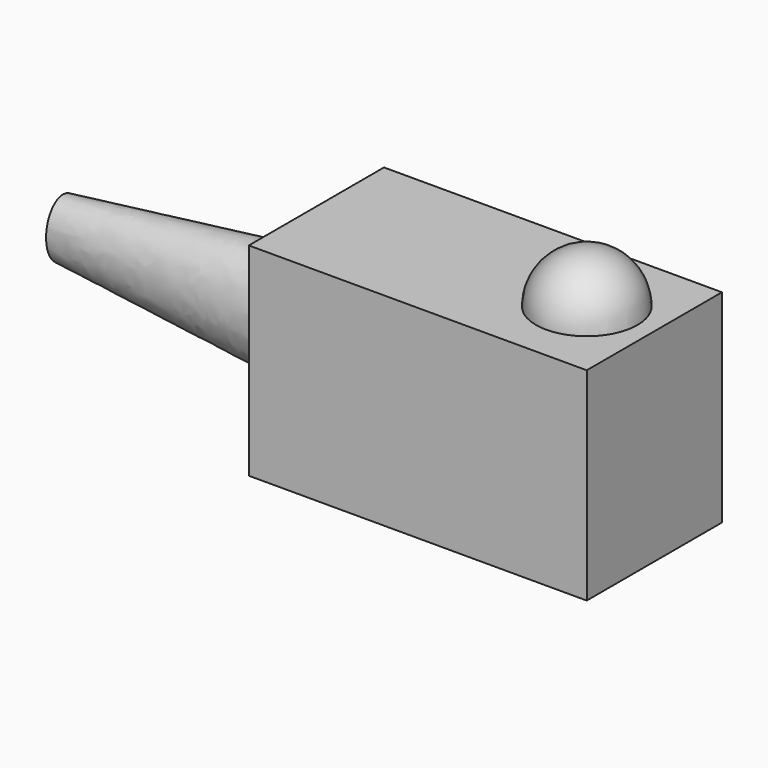
from build123d import *

# Parameters (mm, degrees)
F0_W     = 200
F0_H     = 100
F1_DEPTH = 120
F3_ANGLE = 180


with BuildPart() as f1:
    # F0 (on Top) → F1 (new body)
    with BuildSketch(Plane.XY):
        Rectangle(F0_W, F0_H)
    extrude(amount=F1_DEPTH)

    # F4 (on face) → F7 section 0
    with BuildSketch(Plane(origin=(-100, 0, 0), x_dir=(0, -1, 0), z_dir=(-1, 0, 0))):
        with BuildLine():
            add(Edge.make_bspline(
                [(0, 25), (43.30127, 25), (21.650635, 77.5), (0, 130), (-21.650635, 77.5), (-43.30127, 25), (0, 25)],
                knots=[0, 0, 0, 2.094395, 2.094395, 4.18879, 4.18879, 6.283185, 6.283185, 6.283185], degree=2, weights=[1, 0.5, 1, 0.5, 1, 0.5, 1]))
        make_face()
    # F6 (on offset) → F7 section 1
    with BuildSketch(Plane.YZ.offset(-250)):
        with BuildLine():
            add(Edge.make_bspline(
                [(0, 42.5), (21.650635, 42.5), (10.825318, 68.75), (0, 95), (-10.825318, 68.75), (-21.650635, 42.5), (0, 42.5)],
                knots=[0, 0, 0, 2.094395, 2.094395, 4.18879, 4.18879, 6.283185, 6.283185, 6.283185], degree=2, weights=[1, 0.5, 1, 0.5, 1, 0.5, 1]))
        make_face()
    loft()


with BuildPart() as f3:
    # F2 (on face) → F3 (revolve)
    with BuildSketch(Plane.XY.offset(120)):
        with BuildLine():
            Line((60, 0), (60, -30))
            ThreePointArc((60, -30), (90, 0), (60, 30))
            Line((60, 30), (60, 0))
        make_face()
    revolve(axis=Axis((60, 0, 120), (0, -1, 0)), revolution_arc=F3_ANGLE)


solid = Compound([f1.part, f3.part])
